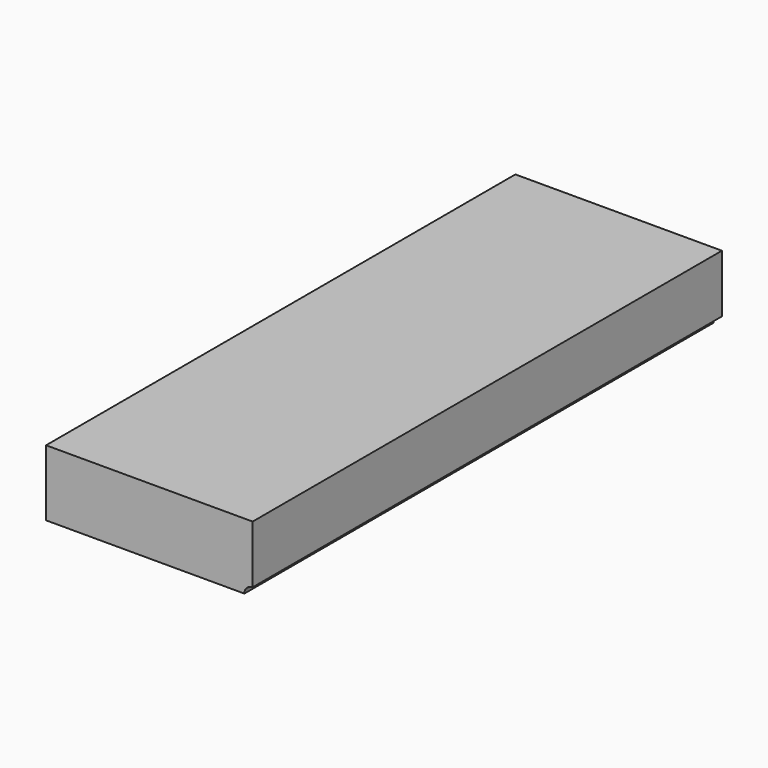
from build123d import *

# Parameters (mm, degrees)
F1_DEPTH = 71


with BuildPart() as f1:
    # F0 (on Front) → F1 (new body, symmetric)
    with BuildSketch(Plane.XZ):
        with BuildLine():
            Line((25, -6), (25, 8))
            Line((25, 8), (-25, 8))
            Line((-25, 8), (-25, -8))
            Line((-25, -8), (23, -8))
            ThreePointArc((23, -8), (23.585786, -6.585786), (25, -6))
        make_face()
    extrude(amount=F1_DEPTH, both=True)


solid = f1.part
